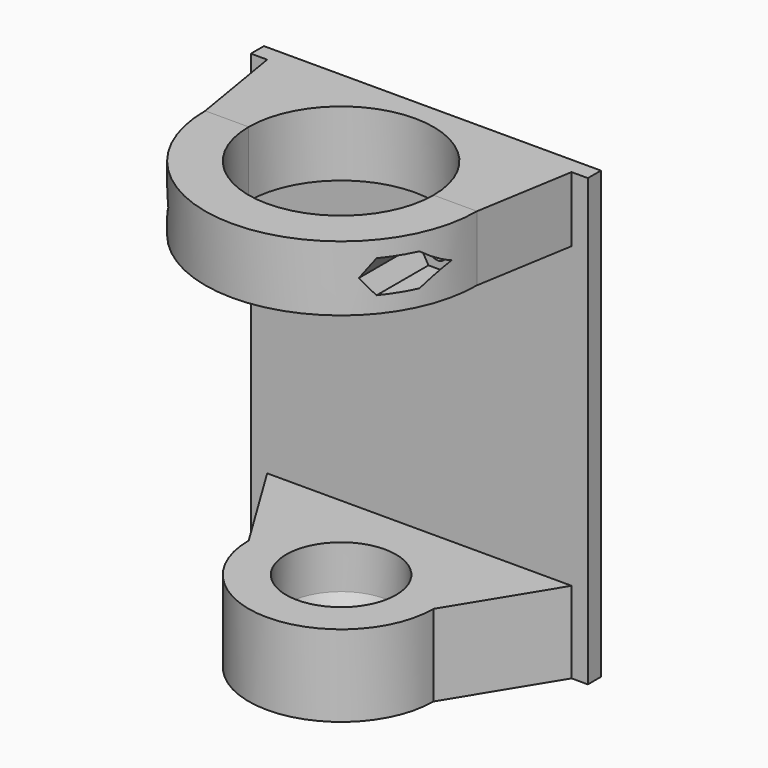
from build123d import *

# Parameters (mm, degrees)
F1_DEPTH         = 82
F2_START         = 70
F2_DEPTH         = 12
F3_START         = 70
F3_DEPTH         = 12
F5_D             = 3.3
F5_CSINK_D       = 7
F5_CSINK_ANGLE   = 90
F5_2_D           = 3.3
F5_2_CSINK_D     = 7
F5_2_CSINK_ANGLE = 90
F6_START         = -25
F6_DEPTH         = 25
F0_R             = 10.1
F8_DEPTH         = 15


with BuildPart() as f1:
    # F0 (on Top) → F1 (new body)
    with BuildSketch(Plane.XY):
        Polygon((28, -1.5), (31, -1.5), (31, 1.5), (-31, 1.5), (-31, -1.5), (-28, -1.5), align=None)
    extrude(amount=F1_DEPTH)

    # F0 (on Top) → F2 (join)
    with BuildSketch(Plane.XY.offset(F2_START)):
        with BuildLine():
            Line((17, -19.5), (28, -1.5))
            Line((28, -1.5), (-28, -1.5))
            Line((-28, -1.5), (-17, -19.5))
            ThreePointArc((-17, -19.5), (0, -2.5), (17, -19.5))
        make_face()
        Polygon((25, -19.5), (28, -1.5), (17, -19.5), align=None)
        Polygon((-17, -19.5), (-28, -1.5), (-25, -19.5), align=None)
    extrude(amount=F2_DEPTH)

    # F5 (through all)
    with Locations(Plane(origin=(0, 1.5, 0), x_dir=(-1, 0, 0), z_dir=(0, 1, 0))):
        with Locations((-21, 76), (21, 76)):
            CounterSinkHole(F5_D / 2, F5_CSINK_D / 2, counter_sink_angle=F5_CSINK_ANGLE)

    # F0 (on Top) → F8 (join)
    with BuildSketch(Plane.XY):
        with BuildLine():
            ThreePointArc((-17, -19.5), (0, -36.5), (17, -19.5))
            ThreePointArc((17, -19.5), (0, -2.5), (-17, -19.5))
        make_face()
        with Locations((0, -19.5)):
            Circle(F0_R, mode=Mode.SUBTRACT)
        with BuildLine():
            Line((17, -19.5), (28, -1.5))
            Line((28, -1.5), (-28, -1.5))
            Line((-28, -1.5), (-17, -19.5))
            ThreePointArc((-17, -19.5), (0, -2.5), (17, -19.5))
        make_face()
    extrude(amount=F8_DEPTH)

    # F9 (on offset) → F10 (revolve)
    with BuildSketch(Plane.XZ.offset(19.5)):
        Polygon((10.1, 7), (7.6, 0), (10.1, 0), align=None)
    revolve(axis=Axis((0, -19.5, 3.5), (0, 0, 1)))


with BuildPart() as f3:
    # F0 (on Top) → F3 (new body)
    with BuildSketch(Plane.XY.offset(F3_START)):
        with BuildLine():
            ThreePointArc((-25, -19.5), (0, -44.5), (25, -19.5))
            Line((25, -19.5), (17, -19.5))
            ThreePointArc((17, -19.5), (0, -36.5), (-17, -19.5))
            Line((-17, -19.5), (-25, -19.5))
        make_face()
    extrude(amount=F3_DEPTH)

    # F5#2 (through all)
    with Locations(Plane(origin=(0, 1.5, 0), x_dir=(-1, 0, 0), z_dir=(0, 1, 0))):
        with Locations((-21, 76), (21, 76)):
            CounterSinkHole(F5_2_D / 2, F5_2_CSINK_D / 2, counter_sink_angle=F5_2_CSINK_ANGLE)

    # F4 (on face) → F6 (cut)
    with BuildSketch(Plane(origin=(0, 1.5, 0), x_dir=(-1, 0, 0), z_dir=(0, 1, 0)).offset(F6_START)):
        Polygon((-19.2679491924, 79), (-21, 79), (-22.7320508076, 79), (-24.4641016151, 76), (-22.7320508076, 73), (-19.2679491924, 73), (-17.5358983849, 76), align=None)
        Polygon((19.2679491924, 79), (17.5358983849, 76), (19.2679491924, 73), (22.7320508076, 73), (24.4641016151, 76), (22.7320508076, 79), (21, 79), align=None)
    extrude(amount=-F6_DEPTH, mode=Mode.SUBTRACT)


solid = Compound([f1.part, f3.part])
